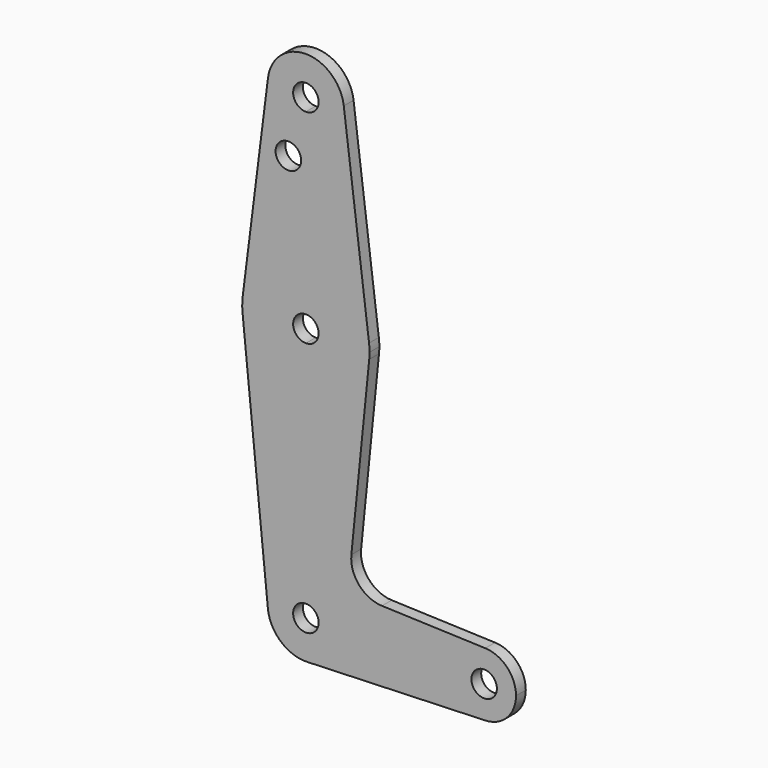
from build123d import *

# Parameters (mm, degrees)
F0_R     = 3.1895497755
F0_R_2   = 3.175
F1_DEPTH = 3.048


with BuildPart() as f1:
    # F0 (on Front) → F1 (new body)
    with BuildSketch(Plane.XZ):
        with BuildLine():
            ThreePointArc((-9.4502929642, 74.52445153), (-7.14375, 67.0336312205), (0, 63.80882653))
            ThreePointArc((0, 63.80882653), (6.7351920908, 66.5986344392), (9.525, 73.33382653))
            ThreePointArc((9.525, 73.33382653), (9.5063048942, 73.930309772), (9.4502929642, 74.52445153))
            ThreePointArc((9.4502929642, 74.52445153), (0, 82.85882653), (-9.4502929642, 74.52445153))
        make_face()
        with BuildLine():
            ThreePointArc((3.175, 73.33382653), (2.2450640303, 71.0887624997), (0, 70.15882653))
            ThreePointArc((0, 70.15882653), (-2.2450640303, 75.5788905602), (3.175, 73.33382653))
        make_face(mode=Mode.SUBTRACT)
        with BuildLine():
            ThreePointArc((9.525, 73.33382653), (6.7351920908, 66.5986344392), (0, 63.80882653))
            Line((0, 63.80882653), (0, 38.40882653))
            ThreePointArc((0, 38.40882653), (10.5003255158, 34.44007653), (15.7504882737, 24.51820153))
            Line((15.7504882737, 24.51820153), (9.4502929642, 74.52445153))
            ThreePointArc((9.4502929642, 74.52445153), (9.5063048942, 73.930309772), (9.525, 73.33382653))
        make_face()
        with BuildLine():
            Line((0, 38.40882653), (0, 63.80882653))
            ThreePointArc((0, 63.80882653), (-7.14375, 67.0336312205), (-9.4502929642, 74.52445153))
            Line((-9.4502929642, 74.52445153), (-15.7504882737, 24.51820153))
            ThreePointArc((-15.7504882737, 24.51820153), (-10.5003255158, 34.44007653), (0, 38.40882653))
        make_face()
        with Locations((-4.3656532653, 59.05902653)):
            Circle(F0_R, mode=Mode.SUBTRACT)
        with BuildLine():
            ThreePointArc((15.7504882737, 24.51820153), (10.5003255158, 34.44007653), (0, 38.40882653))
            Line((0, 38.40882653), (0, 25.70882653))
            ThreePointArc((0, 25.70882653), (2.2450640303, 24.7788905602), (3.175, 22.53382653))
            ThreePointArc((3.175, 22.53382653), (2.2450640303, 20.2887624997), (0, 19.35882653))
            Line((0, 19.35882653), (0, 6.65882653))
            ThreePointArc((0, 6.65882653), (10.6492737428, 10.7606114317), (15.7954255641, 20.94632653))
            ThreePointArc((15.7954255641, 20.94632653), (15.8550939106, 21.7390799759), (15.875, 22.53382653))
            ThreePointArc((15.875, 22.53382653), (15.8438414904, 23.5279652666), (15.7504882737, 24.51820153))
        make_face()
        with BuildLine():
            Line((0, 25.70882653), (0, 38.40882653))
            ThreePointArc((0, 38.40882653), (-10.5003255158, 34.44007653), (-15.7504882737, 24.51820153))
            ThreePointArc((-15.7504882737, 24.51820153), (-15.8737438155, 22.7335320167), (-15.7954255641, 20.94632653))
            ThreePointArc((-15.7954255641, 20.94632653), (-10.6492737428, 10.7606114317), (0, 6.65882653))
            Line((0, 6.65882653), (0, 19.35882653))
            ThreePointArc((0, 19.35882653), (-3.175, 22.53382653), (0, 25.70882653))
        make_face()
        with BuildLine():
            ThreePointArc((0, 6.65882653), (-10.6492737428, 10.7606114317), (-15.7954255641, 20.94632653))
            Line((-15.7954255641, 20.94632653), (-9.4772553384, -41.91867347))
            ThreePointArc((-9.4772553384, -41.91867347), (-7.063929059, -34.5766092243), (0, -31.44117347))
            Line((0, -31.44117347), (0, 6.65882653))
        make_face()
        with BuildLine():
            ThreePointArc((15.7954255641, 20.94632653), (10.6492737428, 10.7606114317), (0, 6.65882653))
            Line((0, 6.65882653), (0, -31.44117347))
            ThreePointArc((0, -31.44117347), (6.7351920908, -34.2309813792), (9.525, -40.96617347))
            ThreePointArc((9.525, -40.96617347), (6.8544082857, -47.5800008078), (0.3401785714, -50.4850969144))
            Line((0.3401785714, -50.4850969144), (44.7334821429, -48.8986096737))
            ThreePointArc((44.7334821429, -48.8986096737), (36.5125, -40.96617347), (44.7334821429, -33.0337372664))
            Line((44.7334821429, -33.0337372664), (18.9676000005, -32.1129397592))
            ThreePointArc((18.9676000005, -32.1129397592), (13.2611998974, -29.3948143202), (11.3411865923, -23.3727916576))
            Line((11.3411865923, -23.3727916576), (15.7954255641, 20.94632653))
        make_face()
        with BuildLine():
            ThreePointArc((0, -31.44117347), (-7.063929059, -34.5766092243), (-9.4772553384, -41.91867347))
            ThreePointArc((-9.4772553384, -41.91867347), (-6.2623833816, -48.1430933791), (0.3401785714, -50.4850969144))
            ThreePointArc((0.3401785714, -50.4850969144), (6.8544082857, -47.5800008078), (9.525, -40.96617347))
            ThreePointArc((9.525, -40.96617347), (6.7351920908, -34.2309813792), (0, -31.44117347))
        make_face()
        with BuildLine():
            ThreePointArc((3.175, -40.96617347), (-2.2450640303, -43.2112375003), (0, -37.79117347))
            ThreePointArc((0, -37.79117347), (2.2450640303, -38.7211094398), (3.175, -40.96617347))
        make_face(mode=Mode.SUBTRACT)
        with BuildLine():
            ThreePointArc((44.7334821429, -33.0337372664), (36.5125, -40.96617347), (44.7334821429, -48.8986096737))
            ThreePointArc((44.7334821429, -48.8986096737), (50.1620069047, -46.4776962515), (52.3875, -40.96617347))
            ThreePointArc((52.3875, -40.96617347), (50.1620069047, -35.4546506886), (44.7334821429, -33.0337372664))
        make_face()
        with Locations((44.45, -40.96617347)):
            Circle(F0_R_2, mode=Mode.SUBTRACT)
    extrude(amount=F1_DEPTH)


solid = f1.part
